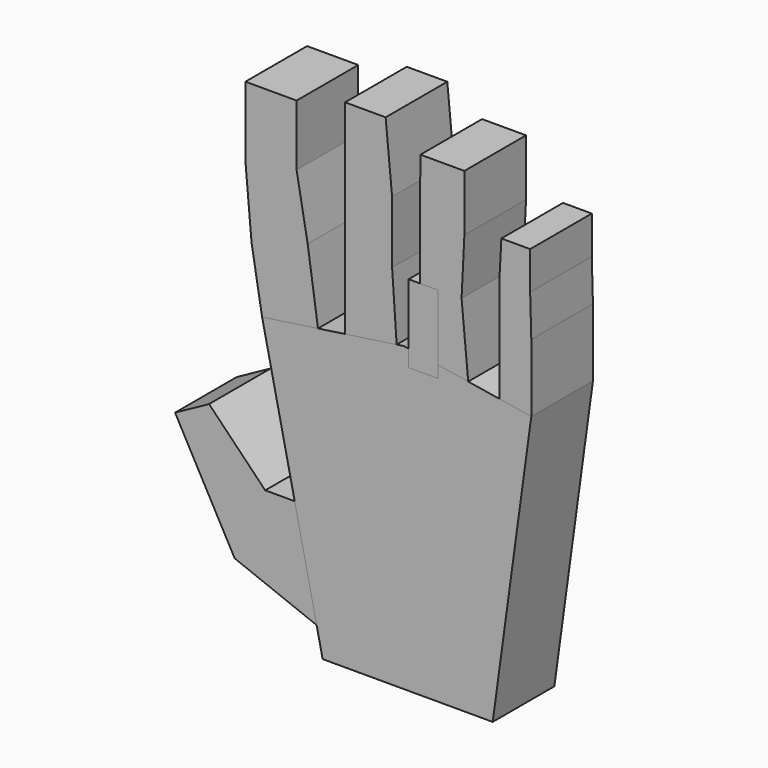
from build123d import *

# Parameters (mm, degrees)
F1_DEPTH      = 6.35
F3_DEPTH      = 6.35
F5_DEPTH      = 6.35
F6_W          = 4.826
F6_H          = 6.6525887966
F7_DEPTH      = 6.351
F7_DEPTH_BACK = 6.351
F9_DEPTH      = 6.35
F8_W          = 0.762
F8_H          = 0.254


with BuildPart() as f1:
    # F0 (on Front) → F1 (new body, symmetric)
    with BuildSketch(Plane.XZ):
        Polygon((-13.4074734524, -41.5735170245), (14.6206625799, -41.5735170245), (20.9797807038, 4.8127714545), (15.7129475847, 5.6634768114), (10.5813797563, 6.4923339523), (2.6212576711, 7.7780626524), (0, 8.2014514123), (-1.2141149422, 8.0255166458), (-9.7080478445, 6.7946792273), (-14.174283288, 6.1474867232), (-23.3850708102, 4.8127714545), (-18.0125854804, -20.164148882), (-14.3987512264, -36.9650231017), align=None)
        Polygon((15.7129475847, 5.6634768114), (20.9797807038, 4.8127714545), (20.9797807038, 15.9848444164), (15.7129475847, 15.9848444164), align=None)
        Polygon((-27.908615768, -31.6731445491), (-14.3987512264, -36.9650231017), (-18.0125854804, -20.164148882), (-22.8704996407, -20.164148882), (-32.1237929165, -10.6538189575), (-37.7309935831, -13.7219114453), align=None)
        Polygon((15.7129475847, 15.9848444164), (20.9797807038, 15.9848444164), (20.7898803055, 22.7895453572), (15.7129475847, 22.7895453572), align=None)
        Polygon((2.6212576711, 7.7780626524), (10.5813797563, 6.4923339523), (9.4885062426, 18.2192586362), (2.6212576711, 18.2192586362), align=None)
        Polygon((15.7129475847, 22.7895453572), (20.7898803055, 22.7895453572), (20.7898803055, 29.0344562382), (16.048182505, 29.0344562382), align=None)
        Polygon((-25.1239885919, 15.028355293), (-23.3850708102, 4.8127714545), (-14.174283288, 6.1474867232), (-15.8724822104, 17.8666524589), align=None)
        Polygon((2.6212576711, 18.2192586362), (9.4885062426, 18.2192586362), (9.9527947605, 27.540743351), (2.6212576711, 27.540743351), align=None)
        Polygon((-26.1335580658, 26.49136069), (-25.1239885919, 15.028355293), (-15.8724822104, 17.8666524589), (-17.7011438751, 28.0113672105), align=None)
        Polygon((2.6212576711, 27.540743351), (9.9527947605, 27.540743351), (9.9527947605, 36.8547067046), (2.7086019982, 36.8547067046), align=None)
        Polygon((-9.7080478445, 18.1460105085), (-9.7080478445, 6.7946792273), (-1.2141149422, 8.0255166458), (-1.9622561522, 18.9613569528), align=None)
        Polygon((-26.1335580658, 38.0676425993), (-26.1335580658, 26.49136069), (-17.7011438751, 28.0113672105), (-17.7011438751, 38.0676425993), align=None)
        Polygon((-9.7080478445, 29.2287375778), (-9.7080478445, 18.1460105085), (-1.9622561522, 18.9613569528), (-1.9622561522, 29.2287375778), align=None)
        Polygon((-9.7080478445, 40.4097996652), (-9.7080478445, 29.2287375778), (-1.9622561522, 29.2287375778), (-3.0251143035, 40.4097996652), align=None)
    extrude(amount=F1_DEPTH, both=True)


with BuildPart() as f3:
    # F2 (on Front) → F3 (new body, symmetric)
    with BuildSketch(Plane.XZ):
        Polygon((-23.3850708102, 4.8127714545), (-13.4074734524, -41.5735170245), (14.6206625799, -41.5735170245), (20.9797807038, 4.8127714545), (0, 8.2014514123), align=None)
    extrude(amount=F3_DEPTH, both=True)


with BuildPart() as f5:
    # F4 (on Right) → F5 (new body)
    with BuildSketch(Plane.YZ):
        with BuildLine():
            Line((-6.35, 4.8127714545), (4.826, 4.8127714545))
            ThreePointArc((4.826, 4.8127714545), (4.8192925091, 5.0671249716), (4.7991886814, 5.3207714545))
            Line((4.7991886814, 5.3207714545), (-6.3296473835, 5.3207714545))
            ThreePointArc((-6.3296473835, 5.3207714545), (-6.3449098057, 5.0669752256), (-6.35, 4.8127714545))
        make_face()
        with BuildLine():
            Line((4.826, 4.8127714545), (5.334, 4.8127714545))
            ThreePointArc((5.334, 4.8127714545), (5.3279351571, 5.0670605852), (5.3097544199, 5.3207714545))
            Line((5.3097544199, 5.3207714545), (4.7991886814, 5.3207714545))
            ThreePointArc((4.7991886814, 5.3207714545), (4.8192925091, 5.0671249716), (4.826, 4.8127714545))
        make_face()
        with BuildLine():
            Line((5.334, 4.8127714545), (6.35, 4.8127714545))
            ThreePointArc((6.35, 4.8127714545), (6.3449098057, 5.0669752256), (6.3296473835, 5.3207714545))
            Line((6.3296473835, 5.3207714545), (5.3097544199, 5.3207714545))
            ThreePointArc((5.3097544199, 5.3207714545), (5.3279351571, 5.0670605852), (5.334, 4.8127714545))
        make_face()
        with BuildLine():
            Line((5.3097544199, 5.3207714545), (6.3296473835, 5.3207714545))
            ThreePointArc((6.3296473835, 5.3207714545), (0, 11.1627714545), (-6.3296473835, 5.3207714545))
            Line((-6.3296473835, 5.3207714545), (4.7991886814, 5.3207714545))
            ThreePointArc((4.7991886814, 5.3207714545), (3.2278993169, 8.400380965), (0, 9.6387714545))
            ThreePointArc((0, 9.6387714545), (-0.254, 9.8927714545), (0, 10.1467714545))
            ThreePointArc((0, 10.1467714545), (3.5876095105, 8.7600001025), (5.3097544199, 5.3207714545))
        make_face()
    extrude(amount=F5_DEPTH)

    # F6 (on Front) → F7 (cut, two sides)
    with BuildSketch(Plane.XZ) as f7_sk:
        with Locations((3.175, 8.6470658527)):
            Rectangle(F6_W, F6_H)
    extrude(amount=-F7_DEPTH, mode=Mode.SUBTRACT)
    extrude(f7_sk.sketch, amount=F7_DEPTH_BACK, mode=Mode.SUBTRACT)


with BuildPart() as f9:
    # F8 (on Front) → F9 (new body, symmetric)
    with BuildSketch(Plane.XZ):
        Polygon((0.762, 5.3207714545), (5.588, 5.3207714545), (5.588, 9.6387714545), (5.588, 9.8927714545), (5.588, 10.1467714545), (5.588, 18.1501861662), (0.762, 18.1501861662), (0.762, 10.1467714545), (0.762, 9.8927714545), (0.762, 9.6387714545), align=None)
    extrude(amount=F9_DEPTH, both=True)

    # F8 (on Front) → F10 (revolve)
    with BuildSketch(Plane.XZ):
        with Locations((5.969, 10.0197714545)):
            Rectangle(F8_W, F8_H)
    revolve(axis=Axis((5.969, 0, 9.8927714545), (-1, 0, 0)))

    # F8 (on Front) → F11 (revolve)
    with BuildSketch(Plane.XZ):
        with Locations((0.381, 10.0197714545)):
            Rectangle(F8_W, F8_H)
    revolve(axis=Axis((0.381, 0, 9.8927714545), (1, 0, 0)))


solid = Compound([f1.part, f3.part, f5.part, f9.part])
